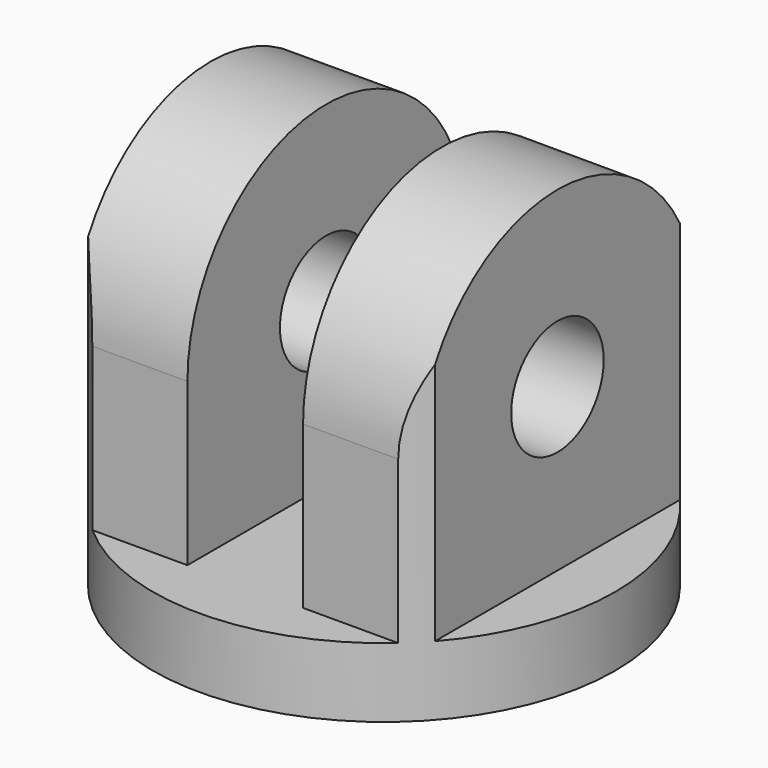
from build123d import *

# Parameters (mm, degrees)
F0_R     = 25.4
F1_DEPTH = 25.4
F2_W     = 12.7
F2_H     = 76.2
F3_DEPTH = 43.18
F4_R     = 6.35
F4_W     = 19.05
F4_H     = 17.78
F5_DEPTH = 25.4


with BuildPart() as f1:
    # F0 (on Top) → F1 (new body, symmetric)
    with BuildSketch(Plane.XY):
        Circle(F0_R)
    extrude(amount=F1_DEPTH, both=True)

    # F2 (on face) → F3 (cut)
    with BuildSketch(Plane.XY.offset(25.4)):
        Rectangle(F2_W, F2_H)
        with Locations((25.4, 0)):
            Rectangle(F2_W, F2_H)
        with Locations((-25.4, 0)):
            Rectangle(F2_W, F2_H)
    extrude(amount=-F3_DEPTH, mode=Mode.SUBTRACT)

    # F4 (on Right) → F5 (cut, symmetric)
    with BuildSketch(Plane.YZ):
        Circle(F4_R)
        with BuildLine():
            ThreePointArc((-19.05, 0), (0, 19.05), (19.05, 0))
            Line((19.05, 0), (38.1, 0))
            Line((38.1, 0), (38.1, 38.1))
            Line((38.1, 38.1), (-38.1, 38.1))
            Line((-38.1, 38.1), (-38.1, 0))
            Line((-38.1, 0), (-19.05, 0))
        make_face()
        with Locations((28.575, -8.89)):
            Rectangle(F4_W, F4_H)
        with Locations((-28.575, -8.89)):
            Rectangle(F4_W, F4_H)
    extrude(amount=F5_DEPTH, both=True, mode=Mode.SUBTRACT)


solid = f1.part
